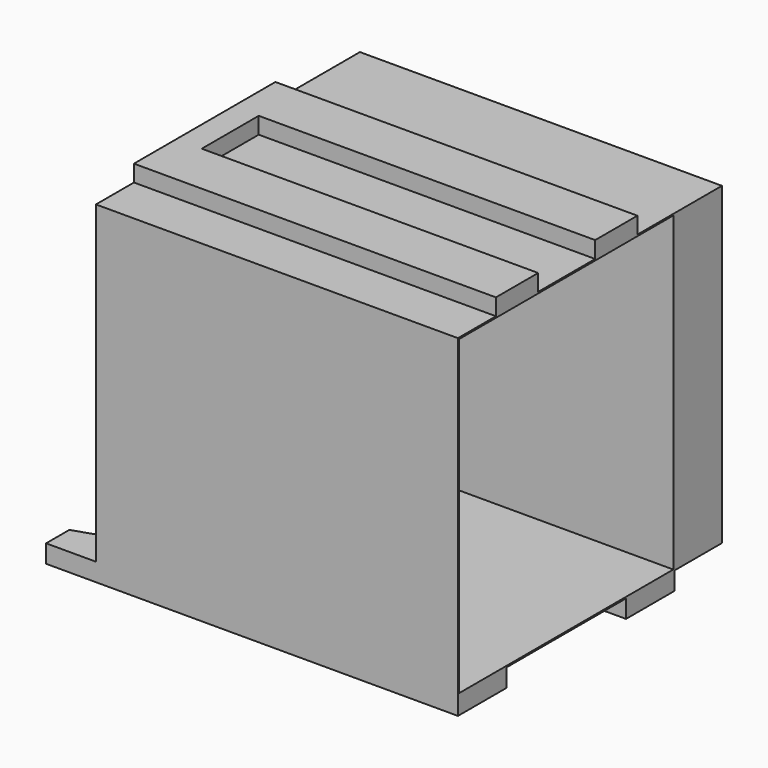
from build123d import *

# Parameters (mm, degrees)
F6_W      = 114
F6_H      = 132.5
F7_DEPTH  = 0.6
F5_W      = 152.5
F5_H      = 114
F9_DEPTH  = 0.6
F1_W      = 152.5
F1_H      = 132.5
F10_DEPTH = 0.6
F3_W      = 152.5
F3_H      = 132.5
F11_DEPTH = 0.6
F0_W      = 152.5
F0_H      = 114
F12_DEPTH = 0.6
F13_W     = 152.5
F13_H     = 132.5
F14_DEPTH = 25
F16_DEPTH = 7
F18_DEPTH = 7.6


with BuildPart() as f7:
    # F6 (on Right) → F7 (new body)
    with BuildSketch(Plane.YZ):
        with Locations((57, 66.25)):
            Rectangle(F6_W, F6_H)
    extrude(amount=F7_DEPTH)

    # F5 (on line) → F9 (join)
    with BuildSketch(Plane.XY.offset(132.5)):
        with Locations((76.25, 57)):
            Rectangle(F5_W, F5_H)
    extrude(amount=-F9_DEPTH)

    # F1 (on Front) → F10 (join)
    with BuildSketch(Plane.XZ):
        with Locations((76.25, 66.25)):
            Rectangle(F1_W, F1_H)
    extrude(amount=-F10_DEPTH)

    # F3 (on line) → F11 (join)
    with BuildSketch(Plane(origin=(0, 114, 0), x_dir=(-1, 0, 0), z_dir=(0, 1, 0))):
        with Locations((-76.25, 66.25)):
            Rectangle(F3_W, F3_H)
    extrude(amount=-F11_DEPTH)

    # F0 (on Top) → F12 (join)
    with BuildSketch(Plane.XY):
        with Locations((76.25, 57)):
            Rectangle(F0_W, F0_H)
    extrude(amount=F12_DEPTH)

    # F13 (on face) → F14 (join)
    with BuildSketch(Plane(origin=(0, 114, 0), x_dir=(-1, 0, 0), z_dir=(0, 1, 0))):
        with Locations((-76.25, 66.25)):
            Rectangle(F13_W, F13_H)
    extrude(amount=F14_DEPTH)

    # F15 (on face) → F16 (join)
    with BuildSketch(Plane.XY.offset(132.5)):
        Polygon((0, 94.5), (0, 20), (152.5, 20), (152.5, 42.25), (10.7762217522, 42.25), (10.7762217522, 72.25), (152.5, 72.25), (152.5, 94.5), align=None)
    extrude(amount=F16_DEPTH)

    # F17 (on face) → F18 (join)
    with BuildSketch(Plane(origin=(0, 0, 0), x_dir=(1, 0, 0), z_dir=(0, 0, -1))):
        Polygon((152.5, -25.5), (152.5, 0), (0, 0), (-21, 0), (-21, -12.25), (0, -19.2), (0, -25.5), align=None)
        Polygon((0, -114), (152.5, -114), (152.5, -88.5), (0, -88.5), (0, -94.8), (-21, -101.75), (-21, -114), align=None)
    extrude(amount=F18_DEPTH)


solid = f7.part
